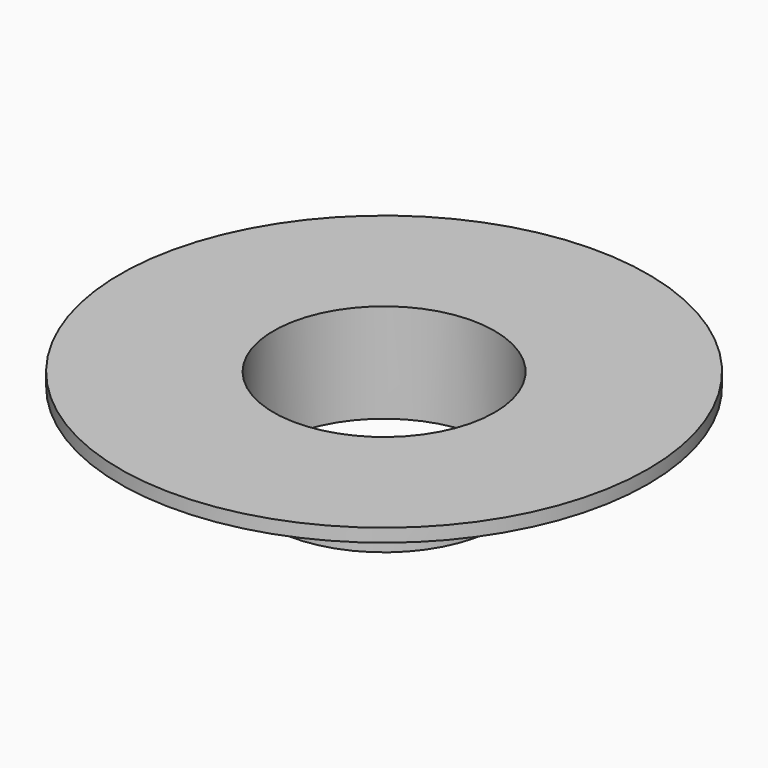
from build123d import *

# Parameters (mm, degrees)
SKETCH_R      = 35
PAD_DEPTH     = 30
SKETCH001_R   = 33.5
POCKET_DEPTH  = 30.001
SKETCH002_R   = 80
SKETCH002_R_2 = 35
PAD001_DEPTH  = 4


with BuildPart() as part:
    # Sketch → Pad (new body)
    with BuildSketch(Plane.XY):
        Circle(SKETCH_R)
    extrude(amount=PAD_DEPTH)

    # Sketch001 → Pocket (cut, through all)
    with BuildSketch(Plane.XY):
        Circle(SKETCH001_R)
    extrude(amount=POCKET_DEPTH, mode=Mode.SUBTRACT)

    # Sketch002 (on DatumPlane) → Pad001 (join)
    with BuildSketch(Plane.XY.offset(30)):
        Circle(SKETCH002_R)
        Circle(SKETCH002_R_2, mode=Mode.SUBTRACT)
    extrude(amount=-PAD001_DEPTH)


solid = part.part
